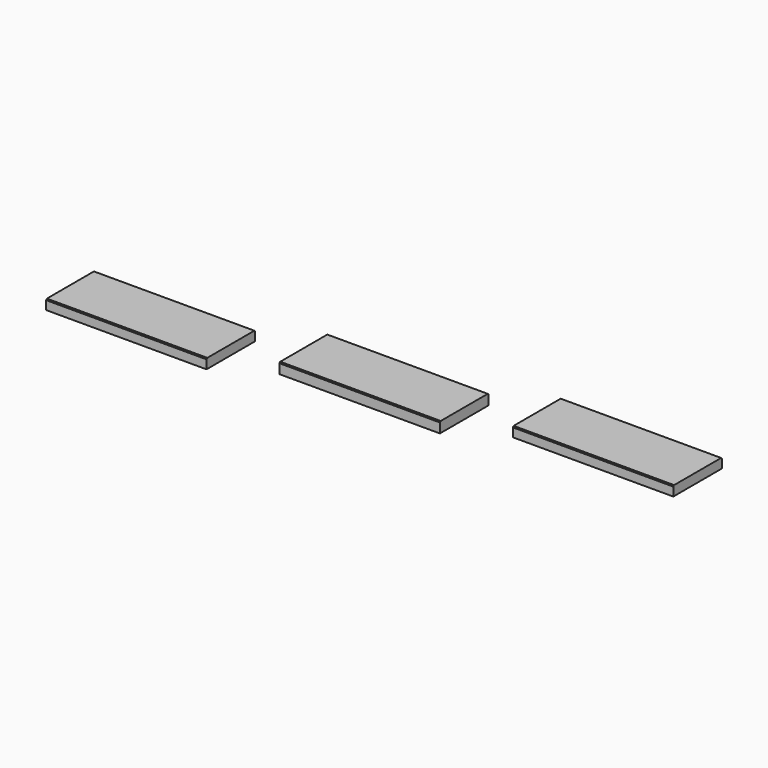
from build123d import *

# Parameters (mm, degrees)
F0_W     = 419.1
F0_H     = 25.4
F0_H_2   = 27.682158
F1_DEPTH = 158.75
F2_SIZE  = 2.54


with BuildPart() as f1:
    # F0 (on Front) → F1 (new body)
    with BuildSketch(Plane.XZ):
        with Locations((209.55, 12.7)):
            Rectangle(F0_W, F0_H)
        with Locations((819.15, 64.641079)):
            Rectangle(F0_W, F0_H_2)
        with Locations((1428.75, 116.582158)):
            Rectangle(F0_W, F0_H)
    extrude(amount=F1_DEPTH)

    # F2
    f2_edges = [f1.edges().sort_by_distance(p)[0] for p in [
        (209.55, -158.75, 25.4),
        (819.15, -158.75, 78.482158),
        (1428.75, -158.75, 129.282158),
        (1428.75, 0, 129.282158),
        (819.15, 0, 78.482158),
        (209.55, 0, 25.4),
    ]]
    chamfer(f2_edges, length=F2_SIZE)


solid = f1.part
